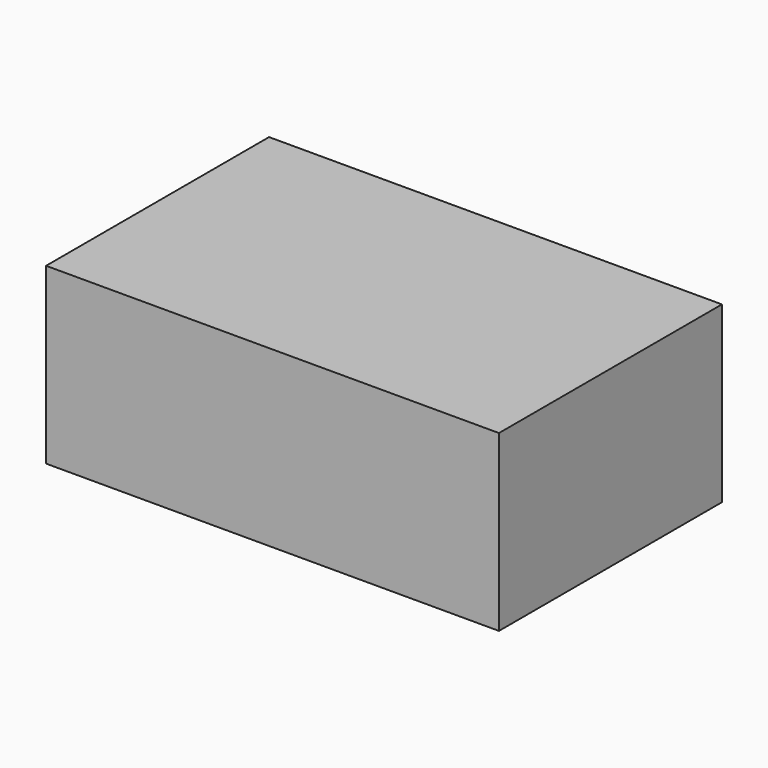
from build123d import *

# Parameters (mm, degrees)
SKETCH_W      = 130
SKETCH_H      = 80
EXTRUDE_DEPTH = 50


with BuildPart() as part:
    # Sketch → Extrude (new body)
    with BuildSketch(Plane.XY):
        Rectangle(SKETCH_W, SKETCH_H)
    extrude(amount=EXTRUDE_DEPTH)


solid = part.part
